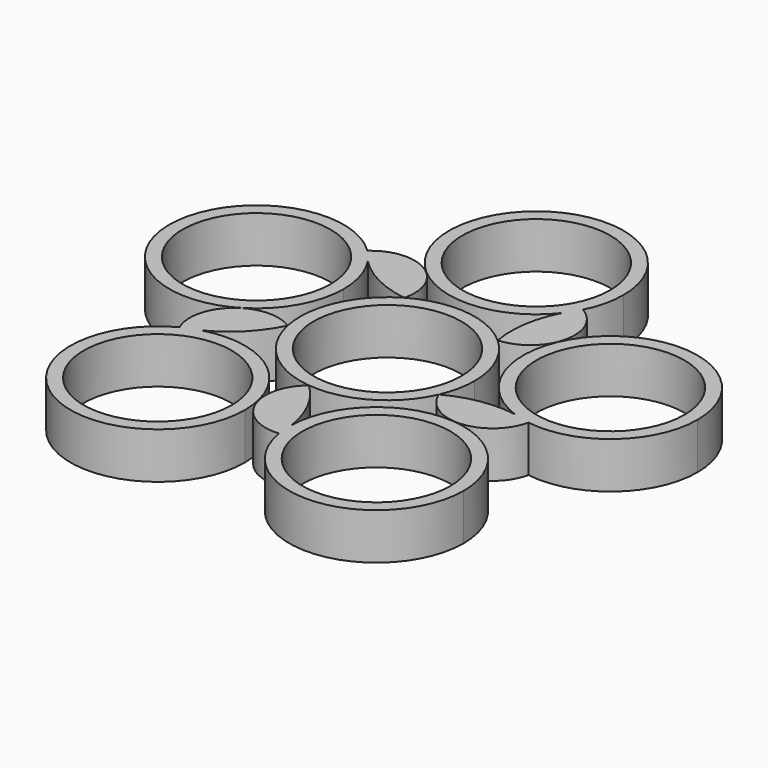
from build123d import *

# Parameters (mm, degrees)
F0_R     = 11.2
F1_DEPTH = 7


with BuildPart() as f1:
    # F0 (on Top) → F1 (new body)
    with BuildSketch(Plane.XY):
        with BuildLine():
            ThreePointArc((12.0604066847, -5.3653136534), (12.9119589575, -2.7425017559), (13.2, 0))
            ThreePointArc((13.2, 0), (12.0579963137, 5.3707285258), (8.8295871367, 9.8121552676))
            ThreePointArc((8.8295871367, 9.8121552676), (1.3758458874, 13.1281014657), (-6.6034217276, 11.4295591117))
            ThreePointArc((-6.6034217276, 11.4295591117), (-12.0604066847, 5.3653136534), (-12.9107262064, -2.7482992602))
            ThreePointArc((-12.9107262064, -2.7482992602), (-8.8295871367, -9.8121552676), (-1.3758458874, -13.1281014657))
            ThreePointArc((-1.3758458874, -13.1281014657), (6.6034217276, -11.4295591117), (12.0604066847, -5.3653136534))
        make_face()
        Circle(F0_R, mode=Mode.SUBTRACT)
    extrude(amount=F1_DEPTH)


with BuildPart() as f1b:
    # F0 (on Top) → F1, piece 2 (new body)
    with BuildSketch(Plane.XY):
        with BuildLine():
            ThreePointArc((22.2472331641, -3.6922492336), (17.0146843421, -3.681623368), (12.0604066847, -5.3653136534))
            ThreePointArc((12.0604066847, -5.3653136534), (18.8173485037, -9.5959790593), (24.820005265, -4.3497514309))
            ThreePointArc((24.820005265, -4.3497514309), (23.5170433701, -4.0858607543), (22.2472331641, -3.6922492336))
        make_face()
        with BuildLine():
            ThreePointArc((22.2472331641, -3.6922492336), (23.5473295296, -3.9673525785), (24.820005265, -4.3497514309))
            ThreePointArc((24.820005265, -4.3497514309), (35.3963555487, -1.3014752572), (39.9854151304, 8.7031089476))
            ThreePointArc((39.9854151304, 8.7031089476), (19.224462874, 19.5230905085), (22.2472331641, -3.6922492336))
        make_face()
        with Locations((26.7854151304, 8.7031089476)):
            Circle(F0_R, mode=Mode.SUBTRACT)
        with BuildLine():
            ThreePointArc((22.2472331641, -3.6922492336), (23.5170433701, -4.0858607543), (24.820005265, -4.3497514309))
            ThreePointArc((24.820005265, -4.3497514309), (23.5473295296, -3.9673525785), (22.2472331641, -3.6922492336))
        make_face()
    extrude(amount=F1_DEPTH)


with BuildPart() as f1c:
    # F0 (on Top) → F1, piece 3 (new body)
    with BuildSketch(Plane.XY):
        with BuildLine():
            ThreePointArc((3.3632354321, -22.2993438309), (1.756394721, -17.3196106039), (-1.3758458874, -13.1281014657))
            ThreePointArc((-1.3758458874, -13.1281014657), (-3.3114379379, -20.8616825209), (3.5329439847, -24.9493748552))
            ThreePointArc((3.5329439847, -24.9493748552), (3.3812815638, -23.6286377509), (3.3632354321, -22.2993438309))
        make_face()
        with BuildLine():
            ThreePointArc((3.3632354321, -22.2993438309), (3.5033484746, -23.6208205599), (3.5329439847, -24.9493748552))
            ThreePointArc((3.5329439847, -24.9493748552), (17.6401470384, -35.9402974623), (29.7542969533, -22.7850350327))
            ThreePointArc((29.7542969533, -22.7850350327), (16.7971836758, -9.5872698416), (3.3632354321, -22.2993438309))
        make_face()
        with Locations((16.5542969533, -22.7850350327)):
            Circle(F0_R, mode=Mode.SUBTRACT)
        with BuildLine():
            ThreePointArc((3.3632354321, -22.2993438309), (3.3812815638, -23.6286377509), (3.5329439847, -24.9493748552))
            ThreePointArc((3.5329439847, -24.9493748552), (3.5033484746, -23.6208205599), (3.3632354321, -22.2993438309))
        make_face()
    extrude(amount=F1_DEPTH)


with BuildPart() as f1d:
    # F0 (on Top) → F1, piece 4 (new body)
    with BuildSketch(Plane.XY):
        with BuildLine():
            ThreePointArc((-20.1686393549, -10.0895031807), (-15.9291727069, -7.0224846571), (-12.9107262064, -2.7482992602))
            ThreePointArc((-12.9107262064, -2.7482992602), (-20.863929701, -3.2972498011), (-22.636525802, -11.0698102277))
            ThreePointArc((-22.636525802, -11.0698102277), (-21.4272964382, -10.5174404836), (-20.1686393549, -10.0895031807))
        make_face()
        with BuildLine():
            ThreePointArc((-20.1686393549, -10.0895031807), (-21.3821410978, -10.6311173697), (-22.636525802, -11.0698102277))
            ThreePointArc((-22.636525802, -11.0698102277), (-23.4082950274, -34.0661125699), (-3.3542969533, -22.7850350327))
            ThreePointArc((-3.3542969533, -22.7850350327), (-8.6003457246, -12.2505839388), (-20.1686393549, -10.0895031807))
        make_face()
        with Locations((-16.5542969533, -22.7850350327)):
            Circle(F0_R, mode=Mode.SUBTRACT)
        with BuildLine():
            ThreePointArc((-20.1686393549, -10.0895031807), (-21.4272964382, -10.5174404836), (-22.636525802, -11.0698102277))
            ThreePointArc((-22.636525802, -11.0698102277), (-21.3821410978, -10.6311173697), (-20.1686393549, -10.0895031807))
        make_face()
    extrude(amount=F1_DEPTH)


with BuildPart() as f1e:
    # F0 (on Top) → F1, piece 5 (new body)
    with BuildSketch(Plane.XY):
        with BuildLine():
            ThreePointArc((-15.8281400603, 16.0636879357), (-11.6011648665, 12.9794764003), (-6.6034217276, 11.4295591117))
            ThreePointArc((-6.6034217276, 11.4295591117), (-9.5831797562, 18.8238700744), (-17.5230863176, 18.1078558855))
            ThreePointArc((-17.5230863176, 18.1078558855), (-16.6240790496, 17.1285020574), (-15.8281400603, 16.0636879357))
        make_face()
        with BuildLine():
            ThreePointArc((-15.8281400603, 16.0636879357), (-16.7182384253, 17.050428687), (-17.5230863176, 18.1078558855))
            ThreePointArc((-17.5230863176, 18.1078558855), (-38.961267058, 3.6052044923), (-13.5854151304, 8.7031089476))
            ThreePointArc((-13.5854151304, 8.7031089476), (-14.1585384198, 12.5504436793), (-15.8281400603, 16.0636879357))
        make_face()
        with Locations((-26.7854151304, 8.7031089476)):
            Circle(F0_R, mode=Mode.SUBTRACT)
        with BuildLine():
            ThreePointArc((-15.8281400603, 16.0636879357), (-16.6240790496, 17.1285020574), (-17.5230863176, 18.1078558855))
            ThreePointArc((-17.5230863176, 18.1078558855), (-16.7182384253, 17.050428687), (-15.8281400603, 16.0636879357))
        make_face()
    extrude(amount=F1_DEPTH)


with BuildPart() as f1f:
    # F0 (on Top) → F1, piece 6 (new body)
    with BuildSketch(Plane.XY):
        with BuildLine():
            ThreePointArc((10.386310819, 20.0174083096), (8.7592585103, 15.0442422287), (8.8295871367, 9.8121552676))
            ThreePointArc((8.8295871367, 9.8121552676), (14.9411988913, 14.9310413069), (11.80666287, 22.2610806283))
            ThreePointArc((11.80666287, 22.2610806283), (11.1530505539, 21.1034369314), (10.386310819, 20.0174083096))
        make_face()
        with BuildLine():
            ThreePointArc((10.386310819, 20.0174083096), (11.049701519, 21.168861821), (11.80666287, 22.2610806283))
            ThreePointArc((11.80666287, 22.2610806283), (12.8469441869, 25.131357313), (13.2, 28.1638521701))
            ThreePointArc((13.2, 28.1638521701), (-12.4767644606, 32.4731849021), (10.386310819, 20.0174083096))
        make_face()
        with Locations((0, 28.1638521701)):
            Circle(F0_R, mode=Mode.SUBTRACT)
        with BuildLine():
            ThreePointArc((10.386310819, 20.0174083096), (11.1530505539, 21.1034369314), (11.80666287, 22.2610806283))
            ThreePointArc((11.80666287, 22.2610806283), (11.049701519, 21.168861821), (10.386310819, 20.0174083096))
        make_face()
    extrude(amount=F1_DEPTH)


solid = Compound([f1.part, f1b.part, f1c.part, f1d.part, f1e.part, f1f.part])
